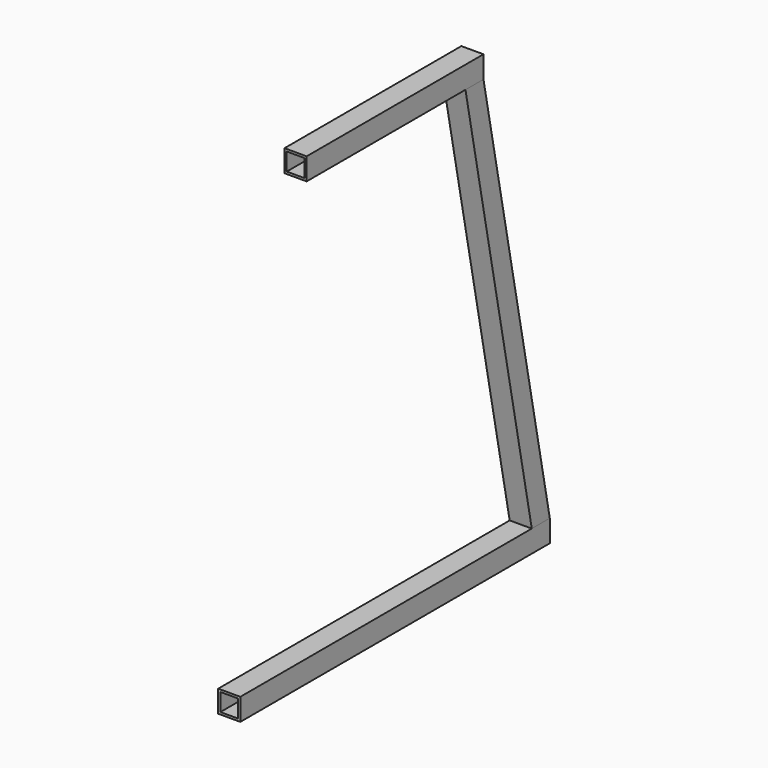
from build123d import *

# Parameters (mm, degrees)
F1_DEPTH = 10
F2_T     = -2
F2_2_T   = -2
F4_DEPTH = 10


with BuildPart() as f1:
    # F0 (on Right) → F1 (new body, symmetric)
    with BuildSketch(Plane.YZ):
        Polygon((-175, 0), (0, 0), (175, 0), (175, 20), (-175, 20), align=None)
    extrude(amount=F1_DEPTH, both=True)

    # F2#2
    f2_2_openings = [f1.faces().sort_by_distance(p)[0] for p in [
        (0, -175, 10),
        (0, 175, 10),
    ]]
    offset(amount=F2_2_T, openings=f2_2_openings)


with BuildPart() as f1b:
    # F0 (on Right) → F1, piece 2 (new body, symmetric)
    with BuildSketch(Plane.YZ):
        Polygon((100, 420), (0, 420), (-100, 420), (-100, 400), (100, 400), align=None)
    extrude(amount=F1_DEPTH, both=True)

    # F2
    f2_openings = [f1b.faces().sort_by_distance(p)[0] for p in [
        (0, 100, 410),
        (0, -100, 410),
    ]]
    offset(amount=F2_T, openings=f2_openings)


with BuildPart() as f4:
    # F3 (on Right) → F4 (new body, symmetric)
    with BuildSketch(Plane.YZ):
        Polygon((175, 20), (100, 400), (79.6141785191, 400), (154.6141785191, 20), align=None)
    extrude(amount=F4_DEPTH, both=True)


solid = Compound([f1.part, f1b.part, f4.part])
